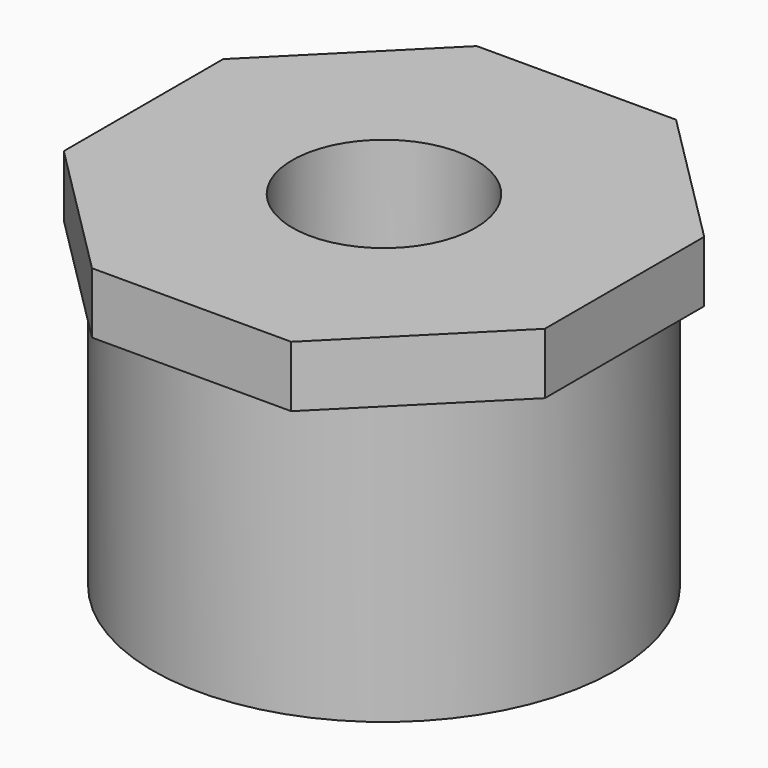
from build123d import *

# Parameters (mm, degrees)
F0_R     = 9.525
F1_DEPTH = 6.35
F2_R     = 24.030165
F2_R_2   = 9.525
F3_DEPTH = 29.464
F4_R     = 20.855165
F5_DEPTH = 12.7
F6_SIZE  = 6.35


with BuildPart() as f1:
    # F0 (on Top) → F1 (new body)
    with BuildSketch(Plane.XY):
        Polygon((-10.355339, -25), (10.355339, -25), (25, -10.355339), (25, 10.355339), (10.355339, 25), (-10.355339, 25), (-25, 10.355339), (-25, -10.355339), align=None)
        Circle(F0_R, mode=Mode.SUBTRACT)
    extrude(amount=F1_DEPTH)

    # F2 (on face) → F3 (join)
    with BuildSketch(Plane(origin=(0, 0, 0), x_dir=(1, 0, 0), z_dir=(0, 0, -1))):
        Circle(F2_R)
        Circle(F2_R_2, mode=Mode.SUBTRACT)
    extrude(amount=F3_DEPTH)

    # F4 (on face) → F5 (cut)
    with BuildSketch(Plane(origin=(0, 0, -29.464), x_dir=(1, 0, 0), z_dir=(0, 0, -1))):
        Circle(F4_R)
    extrude(amount=-F5_DEPTH, mode=Mode.SUBTRACT)

    # F6
    f6_edges = [f1.edges().sort_by_distance(p)[0] for p in [
        (-20.855165, 0, -16.764),
    ]]
    chamfer(f6_edges, length=F6_SIZE)


solid = f1.part
